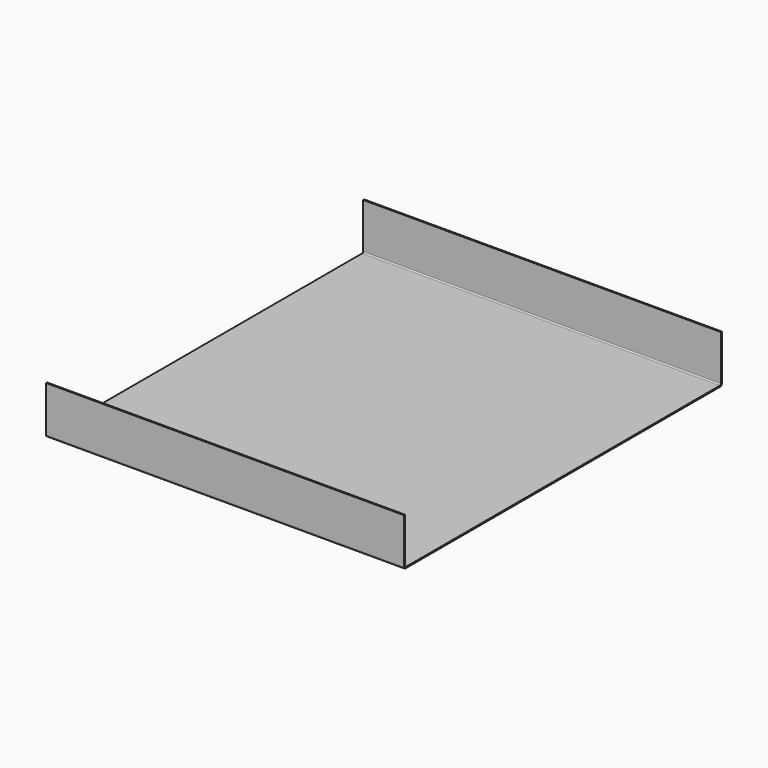
from build123d import *

# Parameters (mm, degrees)
F6_DEPTH = 450
F1_R     = 2.5
F2_R     = 1.5
F3_R     = 1.5
F7_R     = 2.5


with BuildPart() as f6:
    # F0 (on Right) → F6 (new body)
    with BuildSketch(Plane.YZ):
        Polygon((1.5, 0), (0, 0), (0, -60), (500, -60), (500, 0), (498.5, 0), (498.5, -58.5), (1.5, -58.5), align=None)
    extrude(amount=F6_DEPTH)

    # F1
    f1_edges = [f6.edges().sort_by_distance(p)[0] for p in [
        (225, 500, -60),
    ]]
    fillet(f1_edges, radius=F1_R)

    # F2
    f2_edges = [f6.edges().sort_by_distance(p)[0] for p in [
        (225, 498.5, -58.5),
    ]]
    fillet(f2_edges, radius=F2_R)

    # F3
    f3_edges = [f6.edges().sort_by_distance(p)[0] for p in [
        (225, 1.5, -58.5),
    ]]
    fillet(f3_edges, radius=F3_R)

    # F7
    f7_edges = [f6.edges().sort_by_distance(p)[0] for p in [
        (225, 0, -60),
    ]]
    fillet(f7_edges, radius=F7_R)


solid = f6.part
